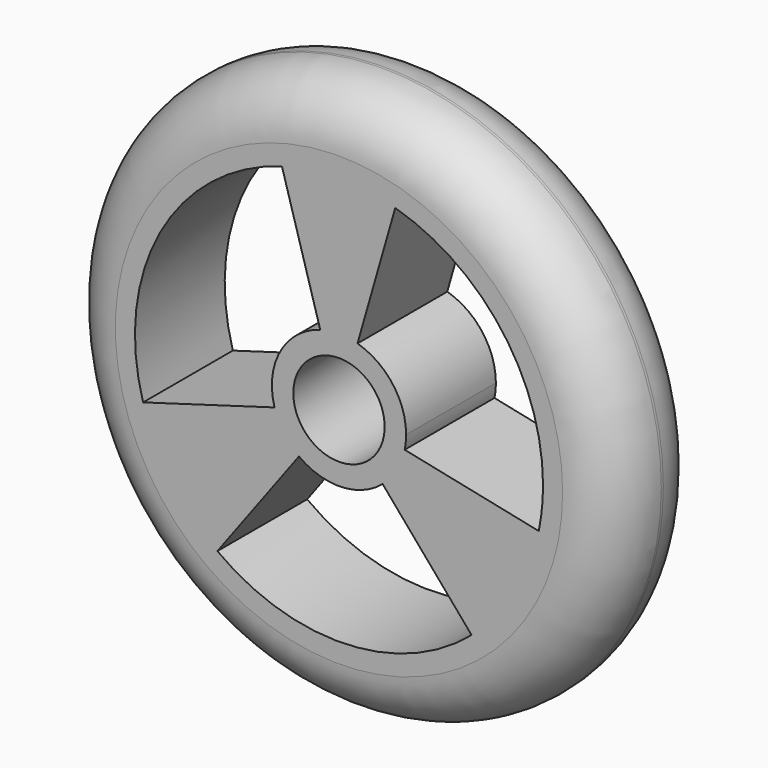
from build123d import *

# Parameters (mm, degrees)
F0_R     = 76.2
F1_DEPTH = 30.7
F3_D     = 25
F6_DEPTH = 50
F7_R     = 15


with BuildPart() as f1:
    # F0 (on Front) → F1 (new body)
    with BuildSketch(Plane.XZ):
        Circle(F0_R)
    extrude(amount=F1_DEPTH)

    # F3 (through all)
    with Locations(Plane.XZ.offset(30.7)):
        with Locations((0, 0)):
            Hole(F3_D / 2)

    # F5 (on face) → F6 (cut)
    with BuildSketch(Plane.XZ.offset(30.7)):
        with BuildLine():
            ThreePointArc((-17.6316000516, -5.1361640309), (-16.0992403752, 8.8356075441), (-5.1361640309, 17.6316000516))
            Line((-5.1361640309, 17.6316000516), (-15.6149722896, 53.6036124568))
            ThreePointArc((-15.6149722896, 53.6036124568), (-48.9449306583, 26.8620250703), (-53.6036124568, -15.6149722896))
            Line((-53.6036124568, -15.6149722896), (-17.6316000516, -5.1361640309))
        make_face()
        with BuildLine():
            Line((15.3924620258, 53.6679302825), (5.0629747103, 17.6527558306))
            ThreePointArc((5.0629747103, 17.6527558306), (14.6668386689, 11.0515765751), (18.3644630015, 0))
            ThreePointArc((18.3644630015, 0), (18.2675422338, -1.8842510628), (17.9778029541, -3.7486133808))
            Line((17.9778029541, -3.7486133808), (54.6561389523, -11.3965390732))
            ThreePointArc((54.6561389523, -11.3965390732), (55.5370046719, -5.7285024301), (55.8316633105, 0))
            ThreePointArc((55.8316633105, 0), (44.590141205, 33.5990168805), (15.3924620258, 53.6679302825))
        make_face()
        with BuildLine():
            Line((36.2787310037, -42.438523829), (11.9330031339, -13.9591166461))
            ThreePointArc((11.9330031339, -13.9591166461), (0.6312267901, -18.3536114722), (-10.9457629494, -14.7459748673))
            Line((-10.9457629494, -14.7459748673), (-33.277322164, -44.8307311742))
            ThreePointArc((-33.277322164, -44.8307311742), (1.9190564742, -55.7986724777), (36.2787310037, -42.438523829))
        make_face()
    extrude(amount=-F6_DEPTH, mode=Mode.SUBTRACT)

    # F7
    f7_edges = [f1.edges().sort_by_distance(p)[0] for p in [
        (-76.2, -30.7, 0),
        (76.2, -15.35, 0),
        (-76.2, 0, 0),
    ]]
    fillet(f7_edges, radius=F7_R)


solid = f1.part
